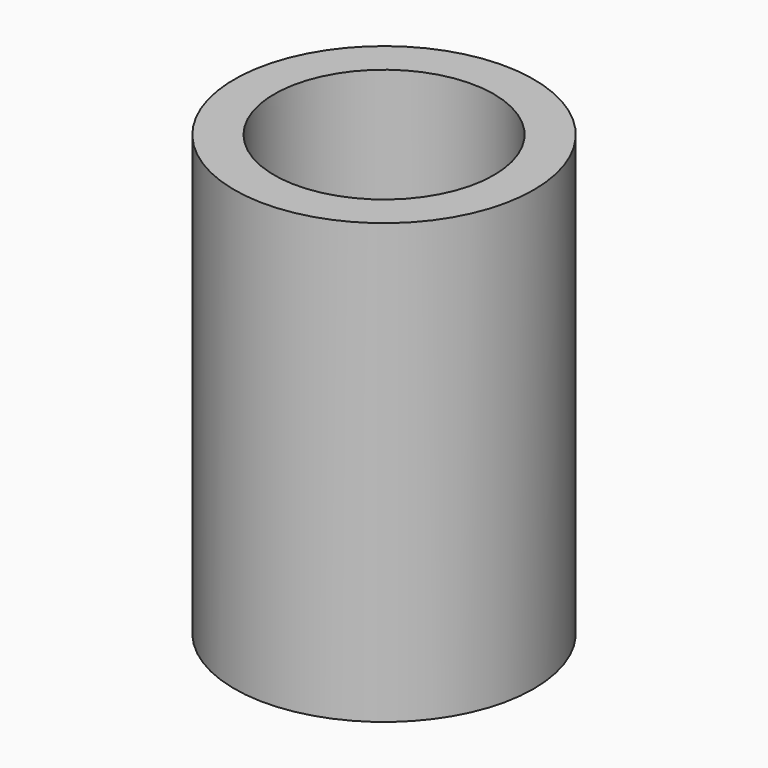
from build123d import *

# Parameters (mm, degrees)
F0_R     = 34.641081
F1_DEPTH = 101.6
F2_R     = 25.4
F3_DEPTH = 101.601


with BuildPart() as f1:
    # F0 (on Top) → F1 (new body)
    with BuildSketch(Plane.XY):
        Circle(F0_R)
    extrude(amount=-F1_DEPTH)

    # F2 (on face) → F3 (cut, through all)
    with BuildSketch(Plane(origin=(0, 0, -101.6), x_dir=(1, 0, 0), z_dir=(0, 0, -1))):
        Circle(F2_R)
    extrude(amount=-F3_DEPTH, mode=Mode.SUBTRACT)


solid = f1.part
